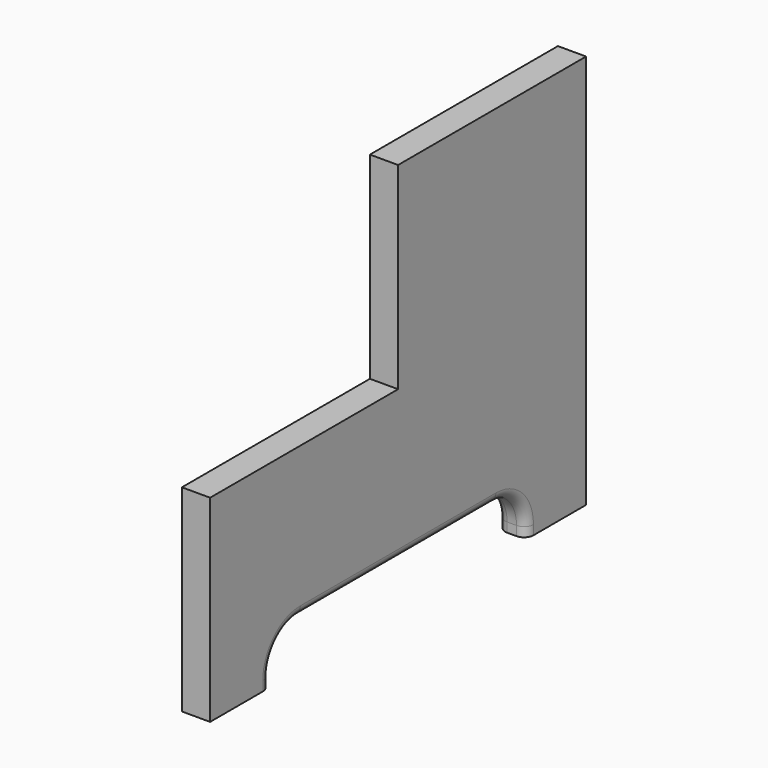
from build123d import *

# Parameters (mm, degrees)
F1_DEPTH = 19.05
F2_R     = 6.35
F3_R     = 6.35


with BuildPart() as f1:
    # F0 (on Right) → F1 (new body)
    with BuildSketch(Plane.YZ):
        with BuildLine():
            Line((0, 133.35), (0, 0))
            Line((0, 0), (50.8, 0))
            Line((50.8, 0), (50.8, 6.35))
            ThreePointArc((50.8, 6.35), (58.239488, 24.310512), (76.2, 31.75))
            Line((76.2, 31.75), (241.3, 31.75))
            ThreePointArc((241.3, 31.75), (259.260512, 24.310512), (266.7, 6.35))
            Line((266.7, 6.35), (266.7, 0))
            Line((266.7, 0), (317.5, 0))
            Line((317.5, 0), (317.5, 266.7))
            Line((317.5, 266.7), (158.75, 266.7))
            Line((158.75, 266.7), (158.75, 133.35))
            Line((158.75, 133.35), (0, 133.35))
        make_face()
    extrude(amount=F1_DEPTH)

    # F2
    f2_edges = [f1.edges().sort_by_distance(p)[0] for p in [
        (19.05, 158.75, 31.75),
    ]]
    fillet(f2_edges, radius=F2_R)

    # F3
    f3_edges = [f1.edges().sort_by_distance(p)[0] for p in [
        (0, 158.75, 31.75),
    ]]
    fillet(f3_edges, radius=F3_R)


solid = f1.part
